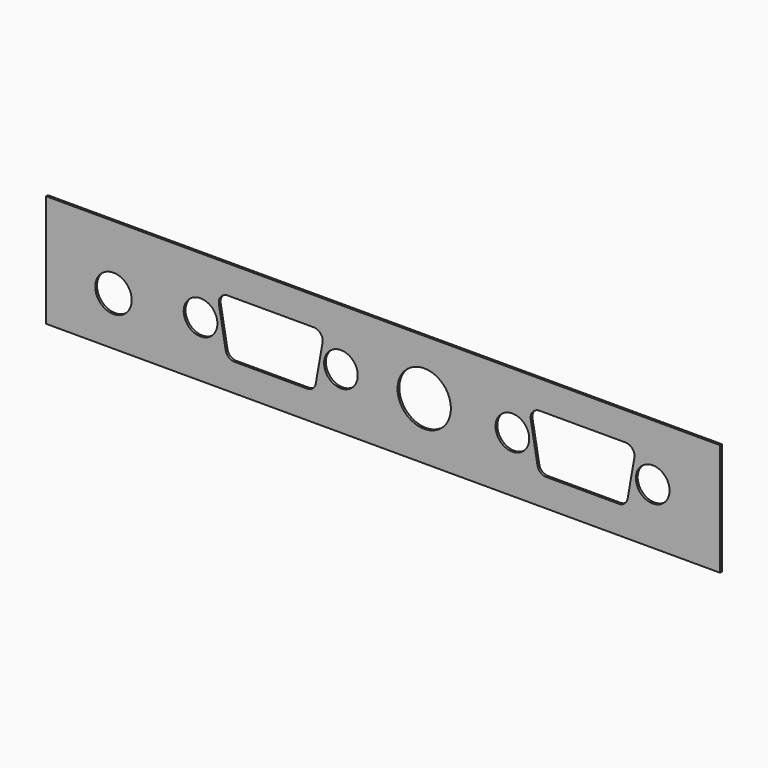
from build123d import *

# Parameters (mm, degrees)
SKETCH006_W   = 120.016
SKETCH006_H   = 20
SKETCH006_R   = 3.25
SKETCH006_R_2 = 3
SKETCH006_R_3 = 4.75
PAD_DEPTH     = 0.4


with BuildPart() as part:
    # Sketch006 → Pad (new body)
    with BuildSketch(Plane.XZ):
        with Locations((73.008, 14)):
            Rectangle(SKETCH006_W, SKETCH006_H)
        with Locations((25, 12.67)):
            Circle(SKETCH006_R, mode=Mode.SUBTRACT)
        with Locations((40.505, 13.9525)):
            Circle(SKETCH006_R_2, mode=Mode.SUBTRACT)
        with Locations((65.495, 13.9525)):
            Circle(SKETCH006_R_2, mode=Mode.SUBTRACT)
        with Locations((80.327, 14.17)):
            Circle(SKETCH006_R_3, mode=Mode.SUBTRACT)
        with Locations((96.026, 13.9525)):
            Circle(SKETCH006_R_2, mode=Mode.SUBTRACT)
        with Locations((121.016, 13.9525)):
            Circle(SKETCH006_R_2, mode=Mode.SUBTRACT)
        with BuildLine():
            Line((46.549023, 8.9525), (59.450977, 8.9525))
            ThreePointArc((59.450977, 8.9525), (60.479437, 9.326829), (61.026669, 10.274663))
            Line((62.225692, 17.074663), (61.026669, 10.274663))
            ThreePointArc((62.225692, 17.074663), (61.875671, 18.38096), (60.65, 18.9525))
            Line((60.65, 18.9525), (45.35, 18.9525))
            ThreePointArc((45.35, 18.9525), (44.124329, 18.38096), (43.774308, 17.074663))
            Line((43.774308, 17.074663), (44.973331, 10.274663))
            ThreePointArc((44.973331, 10.274663), (45.520563, 9.326829), (46.549023, 8.9525))
        make_face(mode=Mode.SUBTRACT)
        with BuildLine():
            Line((102.070023, 8.9525), (114.971977, 8.9525))
            ThreePointArc((114.971977, 8.9525), (116.000437, 9.326829), (116.547669, 10.274663))
            Line((117.746692, 17.074663), (116.547669, 10.274663))
            ThreePointArc((117.746692, 17.074663), (117.396671, 18.38096), (116.171, 18.9525))
            Line((116.171, 18.9525), (100.871, 18.9525))
            ThreePointArc((100.871, 18.9525), (99.645329, 18.38096), (99.295308, 17.074663))
            Line((99.295308, 17.074663), (100.494331, 10.274663))
            ThreePointArc((100.494331, 10.274663), (101.041563, 9.326829), (102.070023, 8.9525))
        make_face(mode=Mode.SUBTRACT)
    extrude(amount=PAD_DEPTH)


solid = part.part
